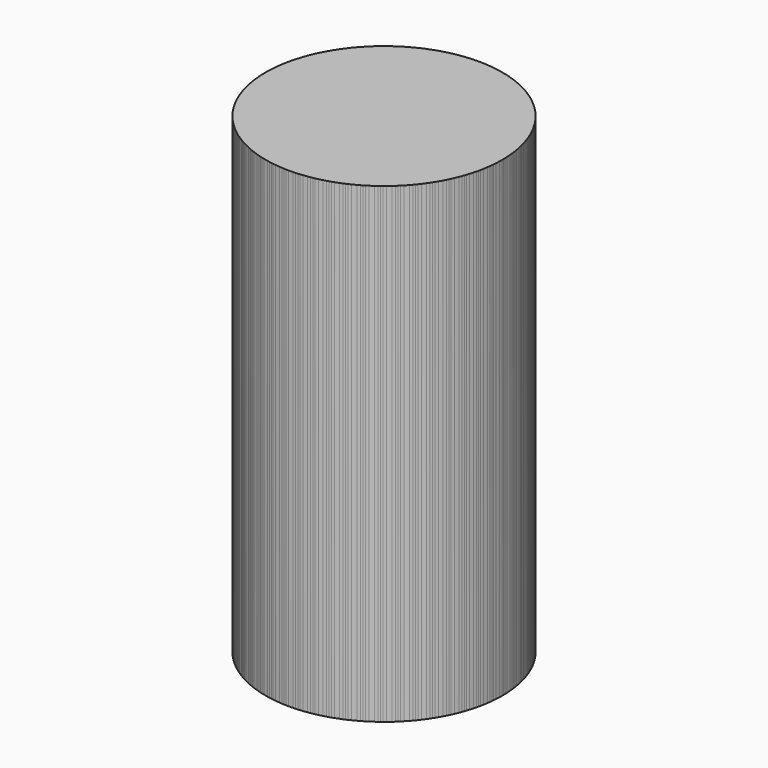
from build123d import *

# Parameters (mm, degrees)
F0_R     = 15.869208
F1_DEPTH = 63.246
F2_COUNT = 5
F2_ANGLE = 72


with BuildPart() as f1:
    # F0 (on Top) → F1 (new body)
    with BuildSketch(Plane.XY):
        Circle(F0_R)
    extrude(amount=F1_DEPTH)


with BuildPart() as f2_1:
    # F2: instance of F1
    add(f1.part.rotate(Axis((0, 0, 0), (0, 0, -1)), 1 * F2_ANGLE / (F2_COUNT - 1)))


with BuildPart() as f2_2:
    # F2: instance of F1
    add(f1.part.rotate(Axis((0, 0, 0), (0, 0, -1)), 2 * F2_ANGLE / (F2_COUNT - 1)))


with BuildPart() as f2_3:
    # F2: instance of F1
    add(f1.part.rotate(Axis((0, 0, 0), (0, 0, -1)), 3 * F2_ANGLE / (F2_COUNT - 1)))


with BuildPart() as f2_4:
    # F2: instance of F1
    add(f1.part.rotate(Axis((0, 0, 0), (0, 0, -1)), 4 * F2_ANGLE / (F2_COUNT - 1)))


solid = Compound([f1.part, f2_1.part, f2_2.part, f2_3.part, f2_4.part])
